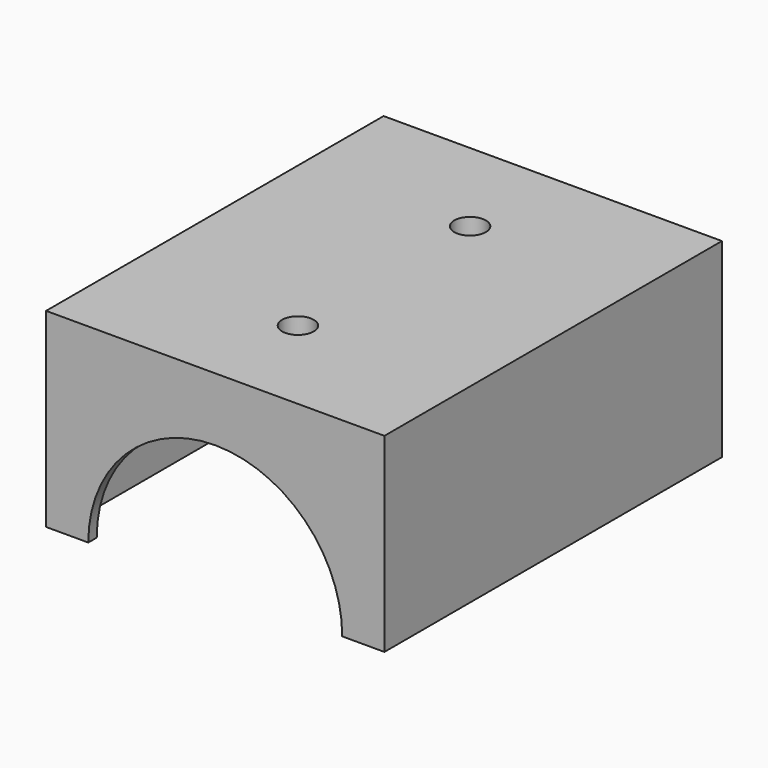
from build123d import *

# Parameters (mm, degrees)
F1_DEPTH = 127
F4_DEPTH = 45.72
F5_R     = 2.54
F6_R     = 4.7625
F7_DEPTH = 11.557


with BuildPart() as f1:
    # F0 (on Front) → F1 (new body)
    with BuildSketch(Plane.XZ):
        with BuildLine():
            Line((0, 57.277), (0, 0))
            Line((0, 0), (12.7, 0))
            ThreePointArc((12.7, 0), (50.927, 38.227), (89.154, 0))
            Line((89.154, 0), (101.854, 0))
            Line((101.854, 0), (101.854, 57.277))
            Line((101.854, 57.277), (0, 57.277))
        make_face()
    extrude(amount=F1_DEPTH)

    # F3 (on face) → F4 (cut)
    with BuildSketch(Plane(origin=(0, 0, 0), x_dir=(1, 0, 0), z_dir=(0, 0, -1))):
        Polygon((50.927, 123.825), (3.175, 123.825), (3.175, 3.175), (50.927, 3.175), (98.679, 3.175), (98.679, 123.825), align=None)
    extrude(amount=-F4_DEPTH, mode=Mode.SUBTRACT)

    # F5
    f5_edges = [f1.edges().sort_by_distance(p)[0] for p in [
        (3.175, -63.5, 45.72),
        (98.679, -63.5, 45.72),
        (50.927, -123.825, 45.72),
        (98.679, -123.825, 22.86),
        (3.175, -123.825, 22.86),
        (98.679, -3.175, 22.86),
        (50.927, -3.175, 45.72),
        (3.175, -3.175, 22.86),
    ]]
    fillet(f5_edges, radius=F5_R)

    # F6 (on face) → F7 (cut, through all)
    with BuildSketch(Plane(origin=(0, 0, 45.72), x_dir=(1, 0, 0), z_dir=(0, 0, -1))):
        with Locations((50.927, 95.885)):
            Circle(F6_R)
        with Locations((50.927, 31.115)):
            Circle(F6_R)
    extrude(amount=-F7_DEPTH, mode=Mode.SUBTRACT)


solid = f1.part
